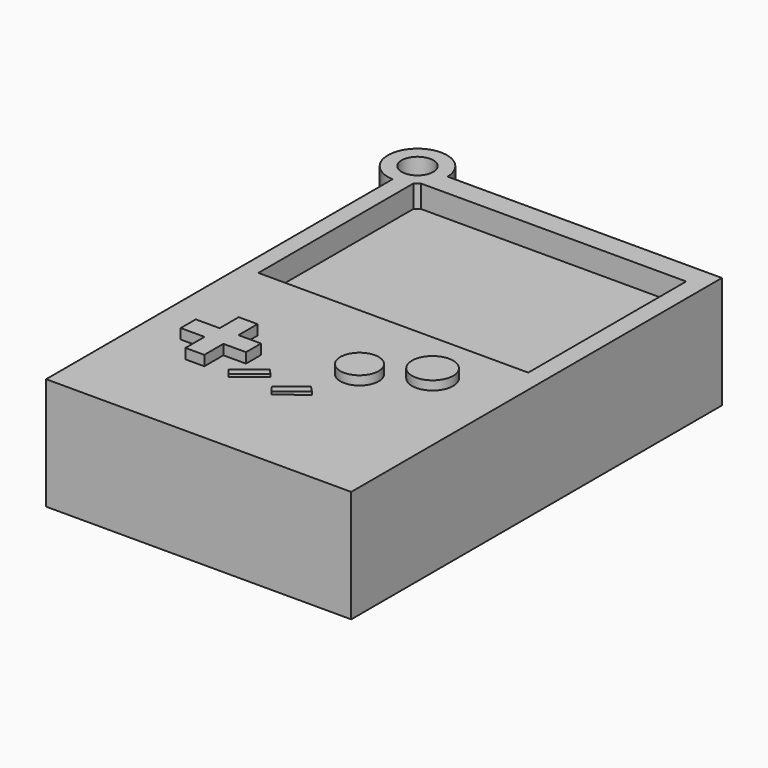
from build123d import *

# Parameters (mm, degrees)
F0_W      = 69.0672509372
F0_H      = 104.8798933625
F1_DEPTH  = 25.4
F2_W      = 61.0817540437
F2_H      = 44.6812286973
F3_DEPTH  = 5.08
F5_R      = 6.6887407384
F6_DEPTH  = 25.4
F7_R      = 3.582784906
F8_DEPTH  = 25.4
F9_W      = 4.2634103447
F9_H      = 5.4003186524
F9_W_2    = 5.400320515
F9_H_2    = 4.2634103447
F9_W_3    = 5.1160920411
F9_H_3    = 5.4003195837
F10_DEPTH = 2.286
F4_R      = 4.3385405976
F4_R_2    = 4.6616734777
F11_DEPTH = 2.032
F14_DEPTH = 0.635


with BuildPart() as f1:
    # F0 (on Top) → F1 (new body)
    with BuildSketch(Plane.XY):
        with Locations((-0.2842266113, 5.2582062781)):
            Rectangle(F0_W, F0_H)
    extrude(amount=F1_DEPTH)

    # F2 (on face) → F3 (cut)
    with BuildSketch(Plane.XY.offset(25.4)):
        with Locations((-0.3880532458, 30.3628817201)):
            Rectangle(F2_W, F2_H)
    extrude(amount=-F3_DEPTH, mode=Mode.SUBTRACT)

    # F5 (on Top) → F6 (join)
    with BuildSketch(Plane.XY):
        with Locations((-34.5117151737, 57.5216077268)):
            Circle(F5_R)
    extrude(amount=F6_DEPTH)

    # F7 (on face) → F8 (cut)
    with BuildSketch(Plane.XY.offset(25.4)):
        with Locations((-34.5117151737, 57.5216077268)):
            Circle(F7_R)
    extrude(amount=-F8_DEPTH, mode=Mode.SUBTRACT)

    # F9 (on face) → F10 (join)
    with BuildSketch(Plane.XY.offset(25.4)):
        with Locations((-18.1905506179, -23.1645293534)):
            Rectangle(F9_W, F9_H)
        with Locations((-23.0224160478, -18.3326648548)):
            Rectangle(F9_W_2, F9_H_2)
        with Locations((-18.1905506179, -18.3326648548)):
            Rectangle(F9_W, F9_H_2)
        with Locations((-13.5007994249, -18.3326648548)):
            Rectangle(F9_W_3, F9_H_2)
        with Locations((-18.1905506179, -13.5007998906)):
            Rectangle(F9_W, F9_H_3)
    extrude(amount=F10_DEPTH)

    # F4 (on face) → F11 (join)
    with BuildSketch(Plane.XY.offset(25.4)):
        with Locations((7.2477986105, -11.08486671)):
            Circle(F4_R)
        with Locations((18.3326639235, -4.2634103447)):
            Circle(F4_R_2)
    extrude(amount=F11_DEPTH)

    # F12 (on face) + F13 (on face) → F14 (join)
    with BuildSketch(Plane.XY.offset(25.4)):
        Polygon((5.6323851459, -22.5031040609), (4.3169683777, -21.1328770965), (-1.1299567856, -25.4363407869), (0, -26.8878247589), align=None)
    with BuildSketch(Plane.XY.offset(25.4)):
        Polygon((-10.0978044793, -26.4493525028), (-4.3428572826, -21.790586412), (-5.4735084007, -20.5657135335), (-11.1444314917, -25.1564601203), align=None)
    extrude(amount=F14_DEPTH)


solid = f1.part
